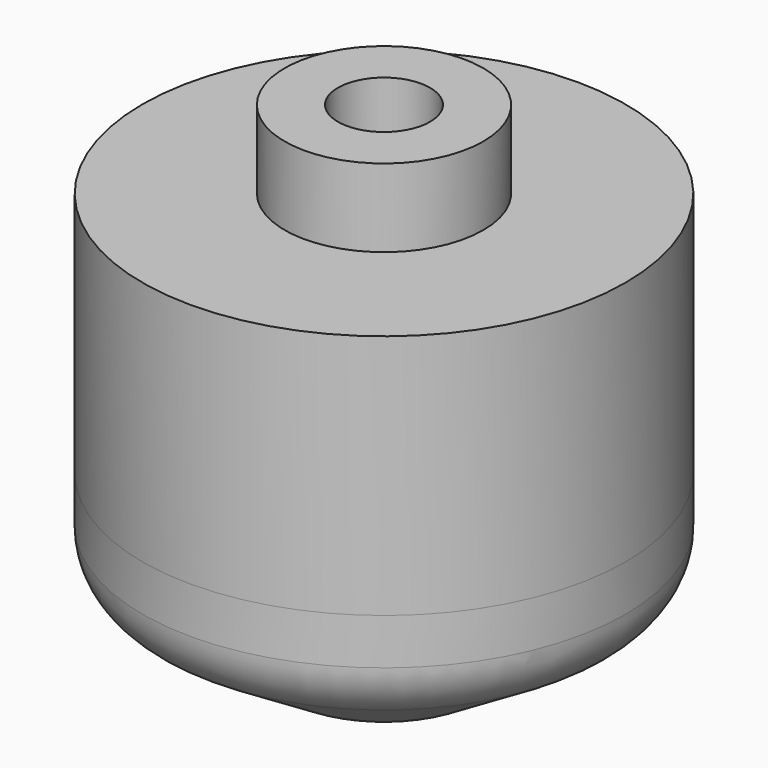
from build123d import *

# Parameters (mm, degrees)
F2_R     = 4.7625
F3_DEPTH = 9.525
F4_R     = 1.5875
F5_DEPTH = 16.66875
F6_DEPTH = 25.4


with BuildPart() as f1:
    # F0 (on Front) → F1 (revolve)
    with BuildSketch(Plane.XZ):
        with BuildLine():
            Line((0, 50.8), (0, 0))
            Line((0, 0), (10.2612478659, 0))
            Line((10.2612478659, 0), (21.9292579814, 7.1549119122))
            ThreePointArc((21.9292579814, 7.1549119122), (24.1505997169, 9.4662699385), (24.9597914517, 12.5681957545))
            Line((24.9597914517, 12.5681957545), (24.9597914517, 17.3331890255))
            Line((24.9597914517, 17.3331890255), (10.2612478659, 17.3331890255))
            Line((10.2612478659, 17.3331890255), (10.2612478659, 50.8))
            Line((10.2612478659, 50.8), (0, 50.8))
        make_face()
    revolve(axis=Axis((0, 0, 25.4), (0, 0, 1)))

    # F2 (on face) → F3 (cut)
    with BuildSketch(Plane.XY.offset(50.8)):
        Circle(F2_R)
    extrude(amount=-F3_DEPTH, mode=Mode.SUBTRACT)

    # F4 (on face) → F5 (cut)
    with BuildSketch(Plane(origin=(0, 0, 0), x_dir=(1, 0, 0), z_dir=(0, 0, -1))):
        Circle(F4_R)
    extrude(amount=-F5_DEPTH, mode=Mode.SUBTRACT)

    # F6 (add): a face of the model
    f6_faces = [f1.faces().sort_by_distance(p)[0] for p in [
        (-24.25382194, 0, 17.3331890255),
    ]]
    extrude(f6_faces, amount=F6_DEPTH)


solid = f1.part
